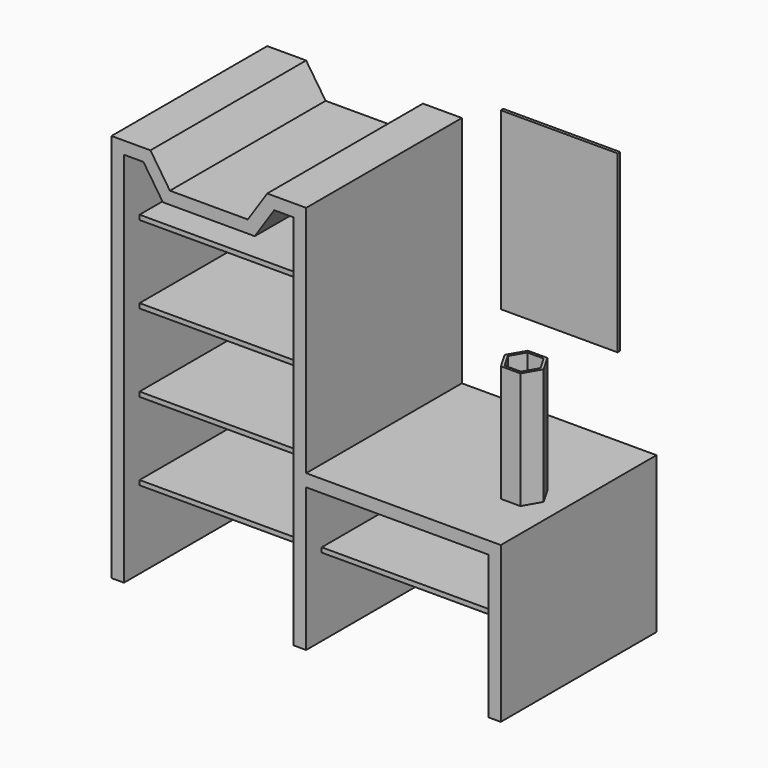
from build123d import *

# Parameters (mm, degrees)
PAD_DEPTH              = 500
BOX003_W               = 500
BOX003_H               = 450
BOX003_DEPTH           = 12
LINEARPATTERN001_COUNT = 4
LINEARPATTERN001_PITCH = 200
BOX004_W               = 500
BOX004_H               = 450
BOX004_DEPTH           = 12
PRISM001_DEPTH         = 300
PRISM_DEPTH            = 300
BOX002_W               = 300
BOX002_H               = 8
BOX002_DEPTH           = 450


with BuildPart() as body_shelf:
    # Sketch004 → Pad (new body)
    with BuildSketch(Plane.XZ):
        Polygon((0, 0), (0, 1000), (100, 1000), (150, 925), (350, 925), (400, 1000), (500, 1000), (500, 400), (1000, 400), (1000, 0), (968, 0), (968, 368), (500, 368), (500, 0), (468, 0), (468, 968), (418, 968), (368, 893), (132, 893), (82, 968), (32, 968), (32, 0), align=None)
    extrude(amount=PAD_DEPTH)

    # Box003 → Box003 (join)
    with BuildSketch(Plane(origin=(0, -450, 200), x_dir=(1, 0, 0), z_dir=(0, 0, 1))):
        with Locations((250, 225)):
            Rectangle(BOX003_W, BOX003_H)
    box003 = extrude(amount=BOX003_DEPTH)

    # LinearPattern001: Box003 ×4
    with Locations(*[(0, 0, i * LINEARPATTERN001_PITCH) for i in range(1, LINEARPATTERN001_COUNT)]):
        add(box003)

    # Box004 → Box004 (join)
    with BuildSketch(Plane(origin=(500, -450, 200), x_dir=(1, 0, 0), z_dir=(0, 0, 1))):
        with Locations((250, 225)):
            Rectangle(BOX004_W, BOX004_H)
    extrude(amount=BOX004_DEPTH)


with BuildPart() as body_vase:
    # Prism001 → Prism001 (join)
    with BuildSketch(Plane.XY):
        Polygon((50, 0), (25, 43.30127), (-25, 43.30127), (-50, 0), (-25, -43.30127), (25, -43.30127), align=None)
    extrude(amount=PRISM001_DEPTH)

    # Prism → Prism (cut)
    with BuildSketch(Plane.XY.offset(6)):
        Polygon((42, 0), (21, 36.373067), (-21, 36.373067), (-42, 0), (-21, -36.373067), (21, -36.373067), align=None)
    extrude(amount=PRISM_DEPTH, mode=Mode.SUBTRACT)


with BuildPart() as body_vase_1:
    # Body001 placement: moved
    add(body_vase.part.moved(Location((900, -300, 400))))


with BuildPart() as body_mirror:
    # Box002 → Box002 (join)
    with BuildSketch(Plane.XY):
        with Locations((150, 4)):
            Rectangle(BOX002_W, BOX002_H)
    extrude(amount=BOX002_DEPTH)


with BuildPart() as body_mirror_1:
    # Body002 placement: moved
    add(body_mirror.part.moved(Location((600, 0, 600))))


solid = Compound([body_shelf.part, body_vase_1.part, body_mirror_1.part])
